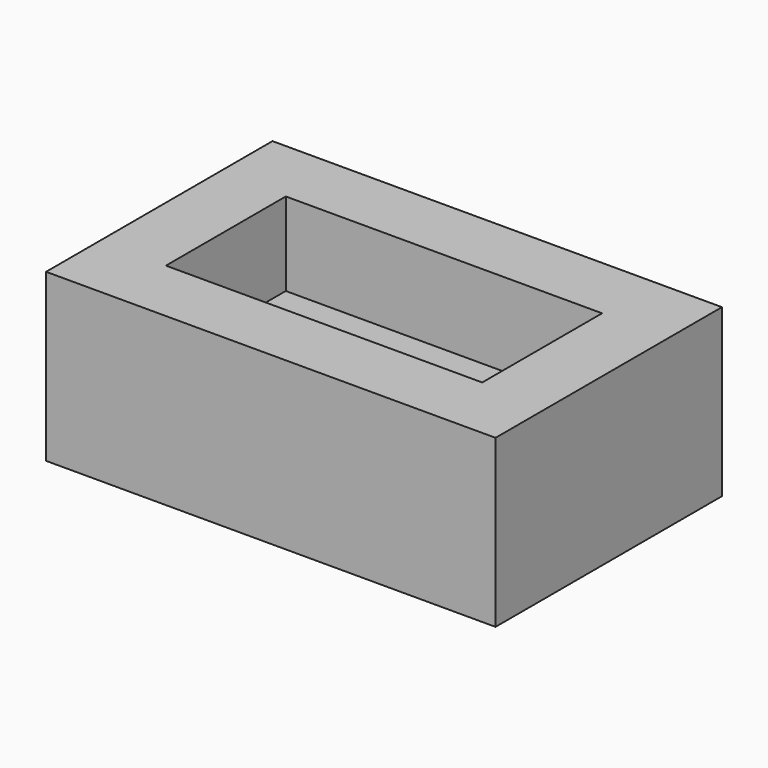
from build123d import *

# Parameters (mm, degrees)
F0_W     = 19
F0_H     = 9
F1_DEPTH = 5
F2_DEPTH = 5


with BuildPart() as f1:
    # F0 (on Top) → F1 (new body)
    with BuildSketch(Plane.XY):
        Polygon((23, -4), (23, 0), (23, 13), (-4, 13), (-4, -4), align=None)
        with Locations((9.5, 4.5)):
            Rectangle(F0_W, F0_H, mode=Mode.SUBTRACT)
        with Locations((9.5, 4.5)):
            Rectangle(F0_W, F0_H)
    extrude(amount=-F1_DEPTH)

    # F0 (on Top) → F2 (join)
    with BuildSketch(Plane.XY):
        Polygon((23, -4), (23, 0), (23, 13), (-4, 13), (-4, -4), align=None)
        with Locations((9.5, 4.5)):
            Rectangle(F0_W, F0_H, mode=Mode.SUBTRACT)
    extrude(amount=F2_DEPTH)


solid = f1.part
